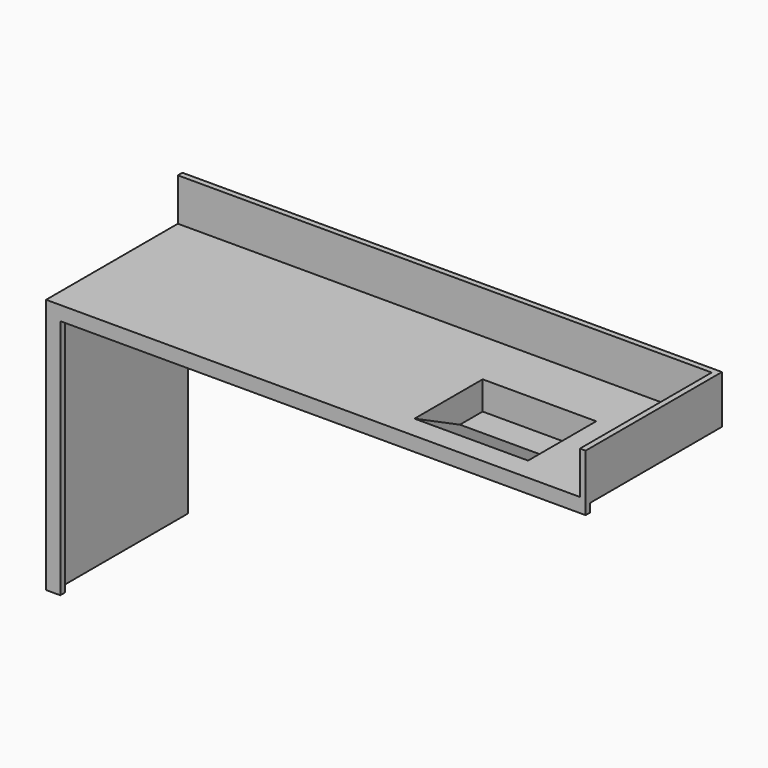
from build123d import *

# Parameters (mm, degrees)
SKETCH002_W      = 1880
SKETCH002_H      = 880
EXTRUDE002_DEPTH = 580
SKETCH001_W      = 1850
SKETCH001_H      = 850
EXTRUDE001_DEPTH = 20
SKETCH003_W      = 400
SKETCH003_H      = 300
EXTRUDE003_DEPTH = 20
SKETCH004_W      = 1900
SKETCH004_H      = 150
EXTRUDE004_DEPTH = 20
SKETCH005_W      = 20
SKETCH005_H      = 150
EXTRUDE005_DEPTH = 600
SKETCH_W         = 1900
SKETCH_H         = 900
EXTRUDE_DEPTH    = 600
EXTRUDE006_DEPTH = 400
EXTRUDE007_DEPTH = 440


with BuildPart() as base:
    # Sketch002 → Extrude002 (new body)
    with BuildSketch(Plane.XZ):
        with Locations((940, 440)):
            Rectangle(SKETCH002_W, SKETCH002_H)
    extrude(amount=-EXTRUDE002_DEPTH)


with BuildPart() as base_1:
    # Extrude002 placement: moved
    add(base.part.moved(Location((0, 20, 0))))


with BuildPart() as obj1:
    # Sketch001 → Extrude001 (new body)
    with BuildSketch(Plane.XZ):
        with Locations((925, 425)):
            Rectangle(SKETCH001_W, SKETCH001_H)
    extrude(amount=-EXTRUDE001_DEPTH)


with BuildPart() as obj2:
    # Sketch003 → Extrude003 (new body)
    with BuildSketch(Plane.XY):
        with Locations((200, 150)):
            Rectangle(SKETCH003_W, SKETCH003_H)
    extrude(amount=EXTRUDE003_DEPTH)


with BuildPart() as obj2_1:
    # Extrude003 placement: moved
    add(obj2.part.moved(Location((266.66, 80, 880))))

    # Fusion: union Base , obj1
    add(base_1.part)
    add(obj1.part)


with BuildPart() as obj3:
    # Sketch004 → Extrude004 (new body)
    with BuildSketch(Plane.XZ):
        with Locations((950, 75)):
            Rectangle(SKETCH004_W, SKETCH004_H)
    extrude(amount=EXTRUDE004_DEPTH)


with BuildPart() as obj3_1:
    # Extrude004 placement: moved
    add(obj3.part.moved(Location((0, 600, 900))))


with BuildPart() as extrude005:
    # Sketch005 → Extrude005 (new body)
    with BuildSketch(Plane.XZ):
        with Locations((10, 75)):
            Rectangle(SKETCH005_W, SKETCH005_H)
    extrude(amount=-EXTRUDE005_DEPTH)


with BuildPart() as extrude005_1:
    # Extrude005 placement: moved
    add(extrude005.part.moved(Location((0, 0, 900))))


with BuildPart() as cut:
    # Sketch → Extrude (new body)
    with BuildSketch(Plane.XZ):
        with Locations((950, 450)):
            Rectangle(SKETCH_W, SKETCH_H)
    extrude(amount=-EXTRUDE_DEPTH)

    # Fusion001: union obj3 , Extrude005
    add(obj3_1.part)
    add(extrude005_1.part)

    # Cut: cut obj2
    add(obj2_1.part, mode=Mode.SUBTRACT)


with BuildPart() as extrude006:
    # Sketch006 → Extrude006 (new body)
    with BuildSketch(Plane.YZ):
        Polygon((0, 0), (300, 0), (300, -100), (200, -100), align=None)
    extrude(amount=EXTRUDE006_DEPTH)


with BuildPart() as obj4:
    # Sketch007 → Extrude007 (new body)
    with BuildSketch(Plane.YZ):
        Polygon((-40, 0), (320, 0), (320, -120), (200, -120), align=None)
    extrude(amount=EXTRUDE007_DEPTH)


with BuildPart() as obj4_1:
    # Extrude007 placement: moved
    add(obj4.part.moved(Location((-20, 0, 0))))

    # Cut001: cut Extrude006
    add(extrude006.part, mode=Mode.SUBTRACT)


with BuildPart() as obj4_2:
    # Cut001 placement: moved
    add(obj4_1.part.moved(Location((266.66, 80, 900))))

    # Fusion015: union Cut
    add(cut.part)


with BuildPart() as mirror:
    # Mirror: instance of obj4
    add(obj4_2.part.mirror(Plane(origin=(0, 0, 0), x_dir=(0, -1, 0), z_dir=(1, 0, 0))))


solid = mirror.part
